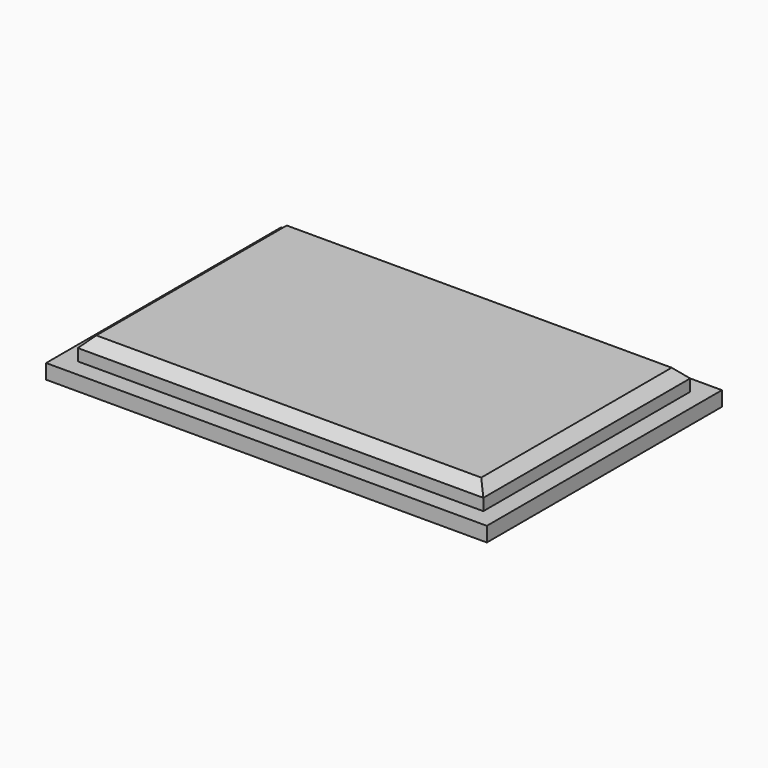
from build123d import *

# Parameters (mm, degrees)
F0_W     = 76.2
F0_H     = 50.8
F1_DEPTH = 2.54
F3_DEPTH = 3.81
F4_SIZE  = 1.778


with BuildPart() as f1:
    # F0 (on Top) → F1 (new body)
    with BuildSketch(Plane.XY):
        with Locations((2.905123, -2.270125)):
            Rectangle(F0_W, F0_H)
    extrude(amount=F1_DEPTH)

    # F2 (on face) → F3 (join)
    with BuildSketch(Plane.XY.offset(2.54)):
        Polygon((37.957123, 20.081875), (-32.146877, 20.081875), (-32.146877, -24.622125), (37.957123, -24.622125), (37.957123, 4.333875), align=None)
    extrude(amount=F3_DEPTH)

    # F4
    f4_edges = [f1.edges().sort_by_distance(p)[0] for p in [
        (2.905123, -24.622125, 6.35),
        (-32.146877, -2.270125, 6.35),
        (37.957123, -2.270125, 6.35),
        (2.905123, 20.081875, 6.35),
    ]]
    chamfer(f4_edges, length=F4_SIZE)


solid = f1.part
